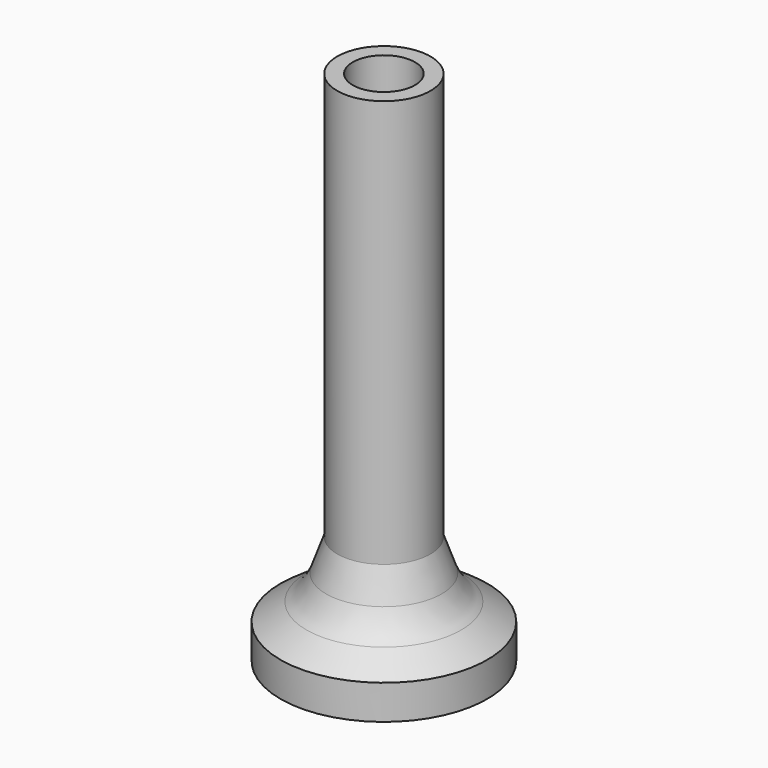
from build123d import *

# Parameters (mm, degrees)
F2_T = -0.9


with BuildPart() as f1:
    # F0 (on Front) → F1 (revolve)
    with BuildSketch(Plane.XZ):
        with BuildLine():
            Line((-6, 0), (0, 0))
            Line((0, 0), (0, 30))
            Line((0, 30), (-2.7065660749, 30))
            Line((-2.7065660749, 30), (-2.7065660749, 6.3329207692))
            Line((-2.7065660749, 6.3329207692), (-3.3541182942, 4.5065977652))
            ThreePointArc((-3.3541182942, 4.5065977652), (-3.804509639, 3.6790523714), (-4.4893614126, 3.0320115764))
            Line((-4.4893614126, 3.0320115764), (-6, 2))
            Line((-6, 2), (-6, 0))
        make_face()
    revolve(axis=Axis((0, 0, 15), (0, 0, 1)))

    # F2
    f2_openings = [f1.faces().sort_by_distance(p)[0] for p in [
        (0, 0, 30),
    ]]
    offset(amount=F2_T, openings=f2_openings, kind=Kind.INTERSECTION)


solid = f1.part
